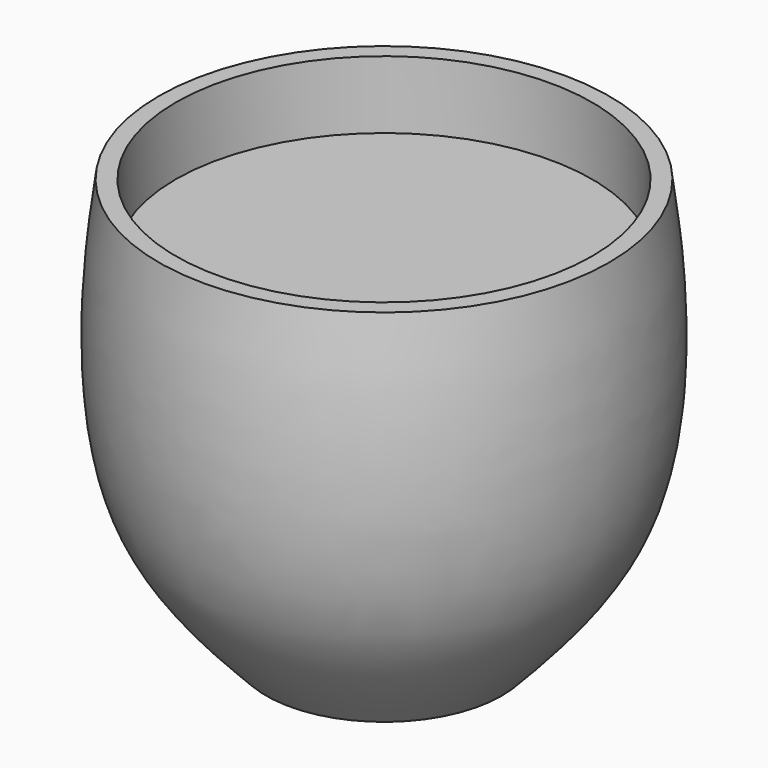
from build123d import *

# Parameters (mm, degrees)
F2_R     = 4
F3_DEPTH = 1.3


with BuildPart() as f1:
    # F0 (on Front) → F1 (revolve)
    with BuildSketch(Plane.XZ):
        with BuildLine():
            Line((4.327247121, 18.2349276463), (0, 18.2349276463))
            Line((0, 18.2349276463), (0, 10.2349276463))
            Line((0, 10.2349276463), (2.2632015722, 10.2349276463))
            add(Edge.make_bspline(
                [(4.327247121, 18.2349276463), (4.5925762769, 16.4473508415), (4.6632079257, 13.228545843), (3.5087119225, 11.5279407203), (2.2632015722, 10.2349276463)],
                knots=[0, 0, 0, 0, 0.5265836805, 1, 1, 1, 1], degree=3))
        make_face()
    revolve(axis=Axis((0, 0, 14.2349276463), (0, 0, -1)))

    # F2 (on face) → F3 (cut)
    with BuildSketch(Plane.XY.offset(18.2349276463)):
        Circle(F2_R)
    extrude(amount=-F3_DEPTH, mode=Mode.SUBTRACT)


solid = f1.part
